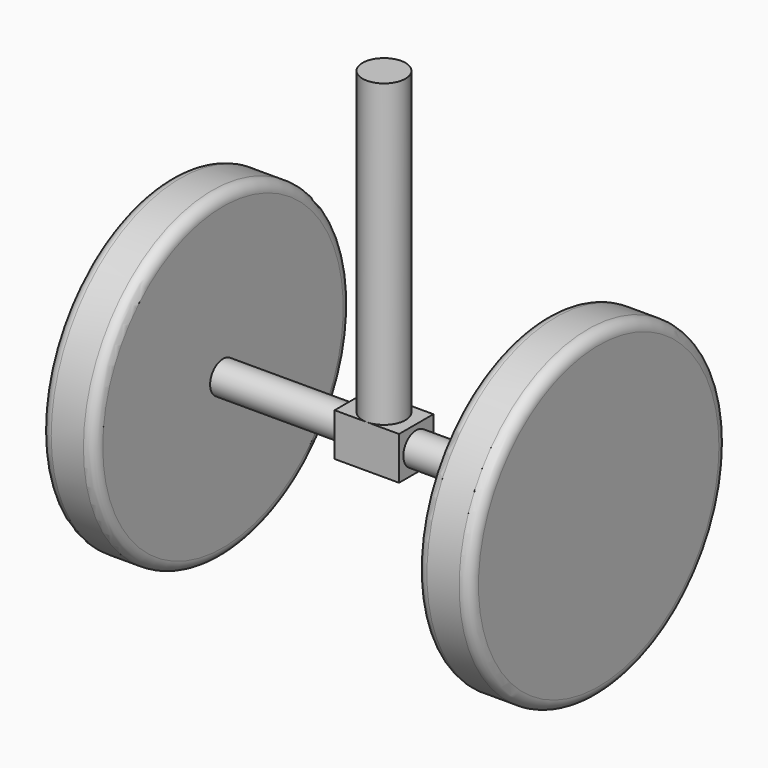
from build123d import *

# Parameters (mm, degrees)
F0_W          = 30
F0_H          = 20
F1_DEPTH      = 10
F1_DEPTH_BACK = 10
F2_R          = 7.5
F3_DEPTH      = 75
F3_DEPTH_BACK = 75
F4_R          = 75
F5_DEPTH      = 25
F6_R          = 5
F7_R          = 75
F8_DEPTH      = 25
F9_R          = 5
F10_R         = 10
F11_DEPTH     = 150


with BuildPart() as f1:
    # F0 (on Front) → F1 (new body, two sides)
    with BuildSketch(Plane.XZ) as f1_sk:
        Rectangle(F0_W, F0_H)
    extrude(amount=F1_DEPTH)
    extrude(f1_sk.sketch, amount=-F1_DEPTH_BACK)

    # F2 (on Right) → F3 (join, two sides)
    with BuildSketch(Plane.YZ) as f3_sk:
        Circle(F2_R)
    extrude(amount=F3_DEPTH)
    extrude(f3_sk.sketch, amount=-F3_DEPTH_BACK)

    # F7 (on face) → F8 (join)
    with BuildSketch(Plane(origin=(-75, 0, 0), x_dir=(0, -1, 0), z_dir=(-1, 0, 0))):
        Circle(F7_R)
    extrude(amount=F8_DEPTH)

    # F9
    f9_edges = [f1.edges().sort_by_distance(p)[0] for p in [
        (-100, 75, 0),
        (-75, 75, 0),
    ]]
    fillet(f9_edges, radius=F9_R)

    # F10 (on Top) → F11 (join)
    with BuildSketch(Plane.XY):
        Circle(F10_R)
    extrude(amount=F11_DEPTH)


with BuildPart() as f5:
    # F4 (on face) → F5 (new body)
    with BuildSketch(Plane.YZ.offset(75)):
        Circle(F4_R)
    extrude(amount=F5_DEPTH)

    # F6
    f6_edges = [f5.edges().sort_by_distance(p)[0] for p in [
        (75, -75, 0),
        (100, -75, 0),
    ]]
    fillet(f6_edges, radius=F6_R)


solid = Compound([f1.part, f5.part])
